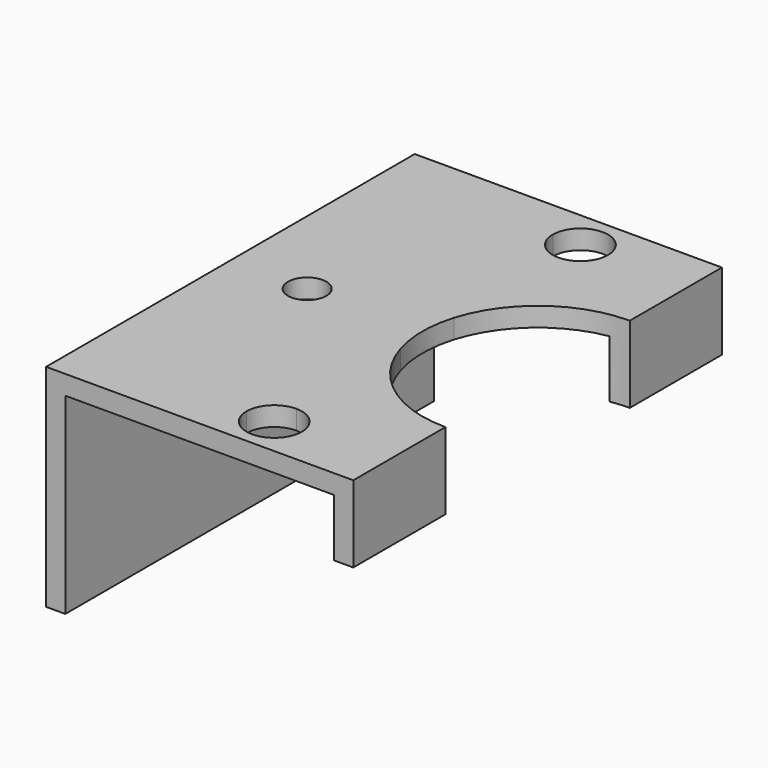
from build123d import *

# Parameters (mm, degrees)
F1_DEPTH = 38.1
F2_R     = 1.5875
F3_DEPTH = 17.4762


with BuildPart() as f1:
    # F0 (on Front) → F1 (new body)
    with BuildSketch(Plane.XZ):
        Polygon((9.91235, 17.4752), (-15.48765, 17.4752), (-15.48765, 0), (-13.90015, 0), (-13.90015, 15.8877), (8.32485, 15.8877), (8.32485, 11.1252), (9.91235, 11.1252), align=None)
    extrude(amount=-F1_DEPTH)

    # F2 (on face) → F3 (cut, through all)
    with BuildSketch(Plane.XY.offset(17.4752)):
        with BuildLine():
            Line((-1.49225, 3.2258), (0.79375, 3.2258))
            Line((0.79375, 3.2258), (0.79375, 5.5118))
            ThreePointArc((0.79375, 5.5118), (-0.822696, 4.842246), (-1.49225, 3.2258))
        make_face()
        with BuildLine():
            Line((0.79375, 5.5118), (0.79375, 3.2258))
            Line((0.79375, 3.2258), (3.07975, 3.2258))
            ThreePointArc((3.07975, 3.2258), (2.410196, 4.842246), (0.79375, 5.5118))
        make_face()
        with BuildLine():
            Line((3.07975, 3.2258), (0.79375, 3.2258))
            Line((0.79375, 3.2258), (-1.49225, 3.2258))
            ThreePointArc((-1.49225, 3.2258), (0.79375, 0.9398), (3.07975, 3.2258))
        make_face()
        with BuildLine():
            ThreePointArc((-1.49225, 34.8742), (-0.822696, 33.257754), (0.79375, 32.5882))
            Line((0.79375, 32.5882), (0.79375, 34.8742))
            Line((0.79375, 34.8742), (-1.49225, 34.8742))
        make_face()
        with BuildLine():
            Line((0.79375, 34.8742), (0.79375, 32.5882))
            ThreePointArc((0.79375, 32.5882), (2.410196, 33.257754), (3.07975, 34.8742))
            Line((3.07975, 34.8742), (0.79375, 34.8742))
        make_face()
        with BuildLine():
            ThreePointArc((0.79375, 21.802591), (0.38735, 19.05), (0.79375, 16.297409))
            Line((0.79375, 16.297409), (0.79375, 21.802591))
        make_face()
        with BuildLine():
            Line((0.79375, 21.802591), (0.79375, 16.297409))
            ThreePointArc((0.79375, 16.297409), (11.303565, 9.627148), (19.43735, 19.05))
            ThreePointArc((19.43735, 19.05), (11.303565, 28.472852), (0.79375, 21.802591))
        make_face()
        with BuildLine():
            Line((-1.49225, 34.8742), (0.79375, 34.8742))
            Line((0.79375, 34.8742), (3.07975, 34.8742))
            ThreePointArc((3.07975, 34.8742), (0.79375, 37.1602), (-1.49225, 34.8742))
        make_face()
        with Locations((-9.13765, 19.05)):
            Circle(F2_R)
    extrude(amount=-F3_DEPTH, mode=Mode.SUBTRACT)


solid = f1.part
